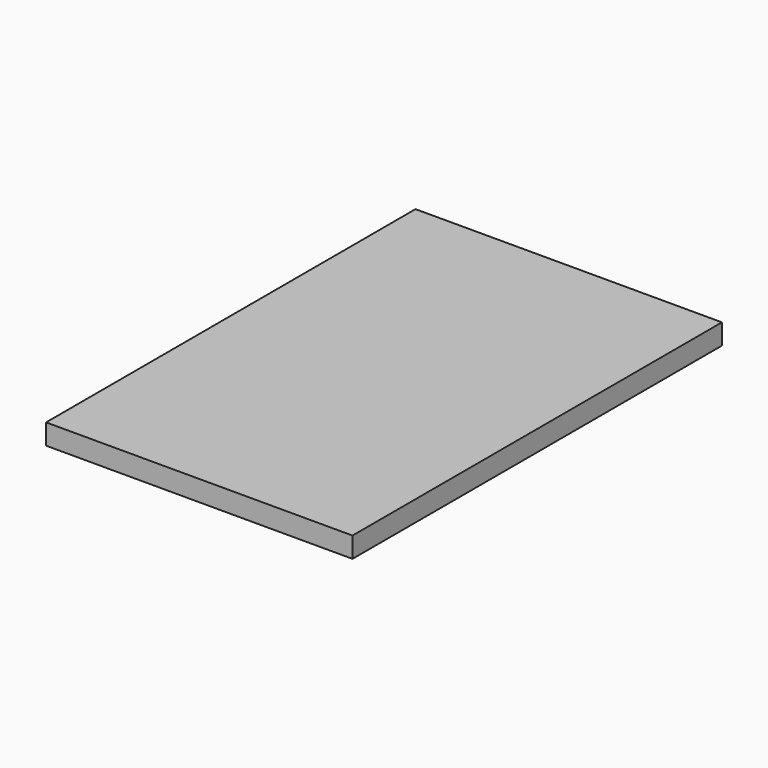
from build123d import *

# Parameters (mm, degrees)
F0_W      = 16.85445
F0_H      = 3.669418
F1_DEPTH  = 25.4
F1_FACE_W = 16.85445
F1_FACE_H = 25.4
F2_DEPTH  = 2.54


with BuildPart() as f1:
    # F0 (on Front) → F1 (new body)
    with BuildSketch(Plane.XZ):
        with Locations((-14.41896, 6.604824)):
            Rectangle(F0_W, F0_H)
    extrude(amount=F1_DEPTH)

    # F1_face (on face) → F2 (cut)
    with BuildSketch(Plane(origin=(-14.41896, -12.7, 4.770115), x_dir=(1, 0, 0), z_dir=(0, 0, -1))):
        Rectangle(F1_FACE_W, F1_FACE_H)
    extrude(amount=-F2_DEPTH, mode=Mode.SUBTRACT)


solid = f1.part
